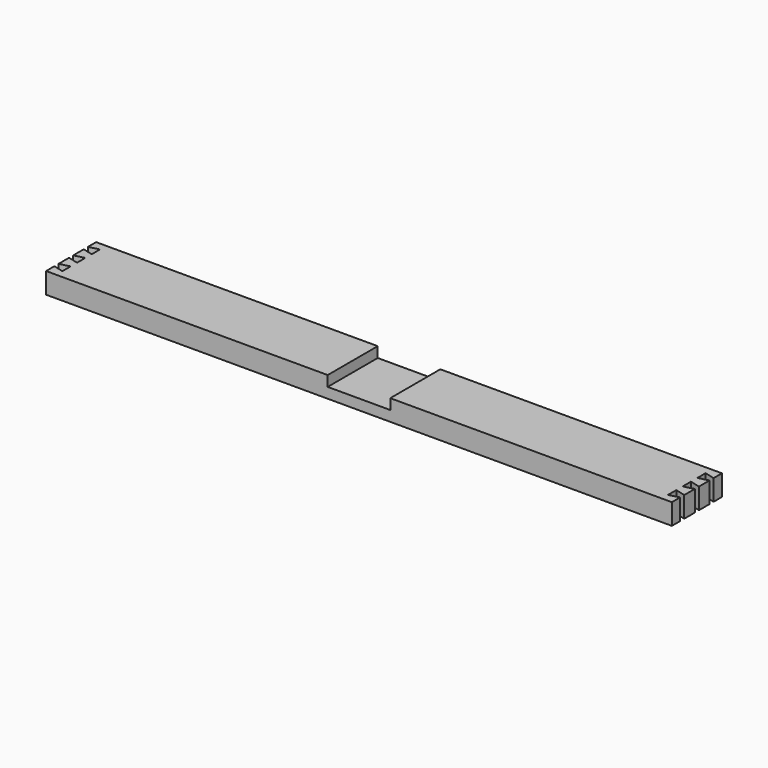
from build123d import *

# Parameters (mm, degrees)
F1_DEPTH = 38.1
F3_DEPTH = 25.401


with BuildPart() as f1:
    # F0 (on Front) → F1 (new body, symmetric)
    with BuildSketch(Plane.XZ):
        Polygon((-38.1, 12.7), (-381, 12.7), (-381, -12.7), (381, -12.7), (381, 12.7), (38.1, 12.7), (38.1, 0), (-38.1, 0), align=None)
    extrude(amount=F1_DEPTH, both=True)

    # F2 (on face) → F3 (cut, through all)
    with BuildSketch(Plane.XY.offset(12.7)):
        Polygon((-368.732742, 15.987002), (-368.732742, 28.687002), (-381, 25.4), (-381, 19.274004), align=None)
        Polygon((-368.732742, 6.35), (-381, 3.062998), (-381, -3.062998), (-368.732742, -6.35), align=None)
        Polygon((-368.732742, -28.687002), (-368.732742, -15.987002), (-381, -19.274004), (-381, -25.4), align=None)
        Polygon((381, 19.274004), (381, 25.4), (368.732742, 28.687002), (368.732742, 15.987002), align=None)
        Polygon((381, -3.062998), (381, 3.062998), (368.732742, 6.35), (368.732742, -6.35), align=None)
        Polygon((381, -25.4), (381, -19.274004), (368.732742, -15.987002), (368.732742, -28.687002), align=None)
    extrude(amount=-F3_DEPTH, mode=Mode.SUBTRACT)


solid = f1.part
